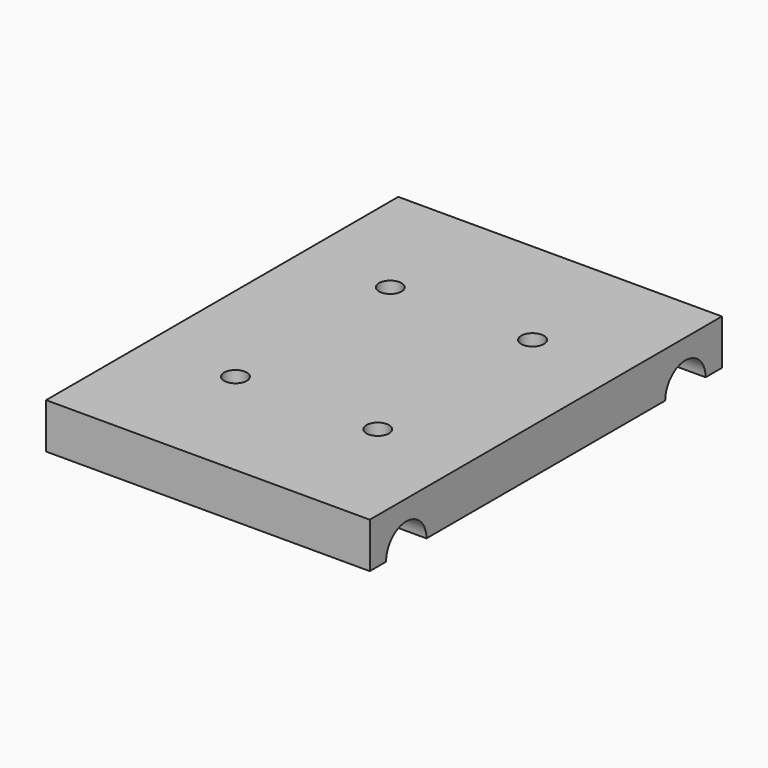
from build123d import *

# Parameters (mm, degrees)
F1_DEPTH = 50
F3_D     = 3.5


with BuildPart() as f1:
    # F0 (on Right) → F1 (new body)
    with BuildSketch(Plane.YZ):
        with BuildLine():
            Line((34, 0), (34, 7))
            Line((34, 7), (-34, 7))
            Line((-34, 7), (-34, 0))
            Line((-34, 0), (-30.85, 0))
            ThreePointArc((-30.85, 0), (-26.95, 3.9), (-23.05, 0))
            Line((-23.05, 0), (23.05, 0))
            ThreePointArc((23.05, 0), (26.95, 3.9), (30.85, 0))
            Line((30.85, 0), (34, 0))
        make_face()
    extrude(amount=F1_DEPTH)

    # F3 (through all)
    with Locations(Plane.XY.offset(7)):
        with Locations((14.007353, 14.95), (35.992647, 14.95), (14.007353, -14.95), (35.992647, -14.95)):
            Hole(F3_D / 2)


solid = f1.part
